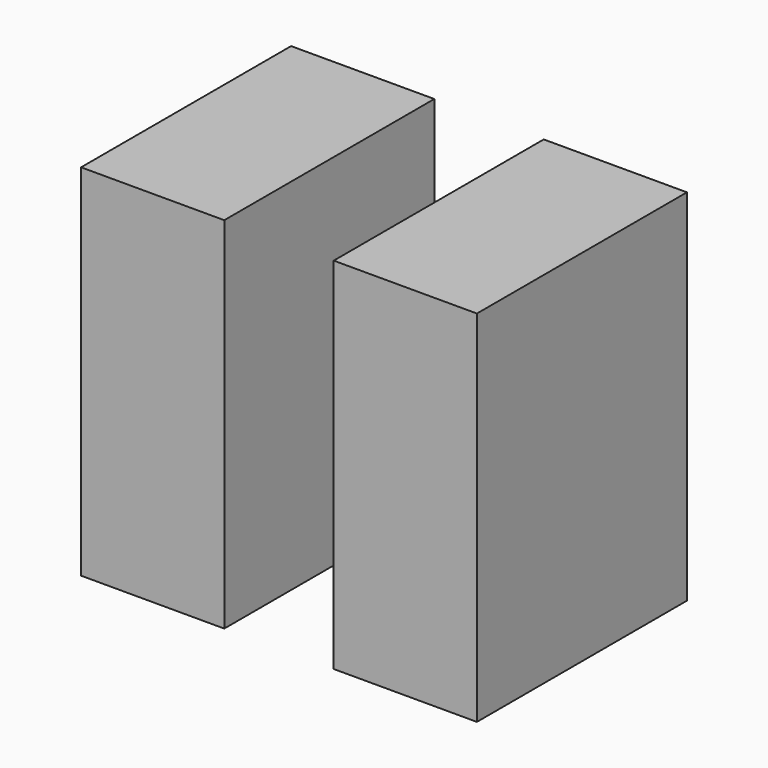
from build123d import *

# Parameters (mm, degrees)
F0_W     = 40.264076
F0_H     = 101.094407
F1_DEPTH = 73.814765


with BuildPart() as f1:
    # F0 (on Front) → F1 (new body)
    with BuildSketch(Plane.XZ):
        with Locations((-35.518863, 0.418452)):
            Rectangle(F0_W, F0_H)
    extrude(amount=F1_DEPTH)


with BuildPart() as f2_1:
    # F2: instance of F1
    add(f1.part.mirror(Plane.YZ))


solid = Compound([f1.part, f2_1.part])
